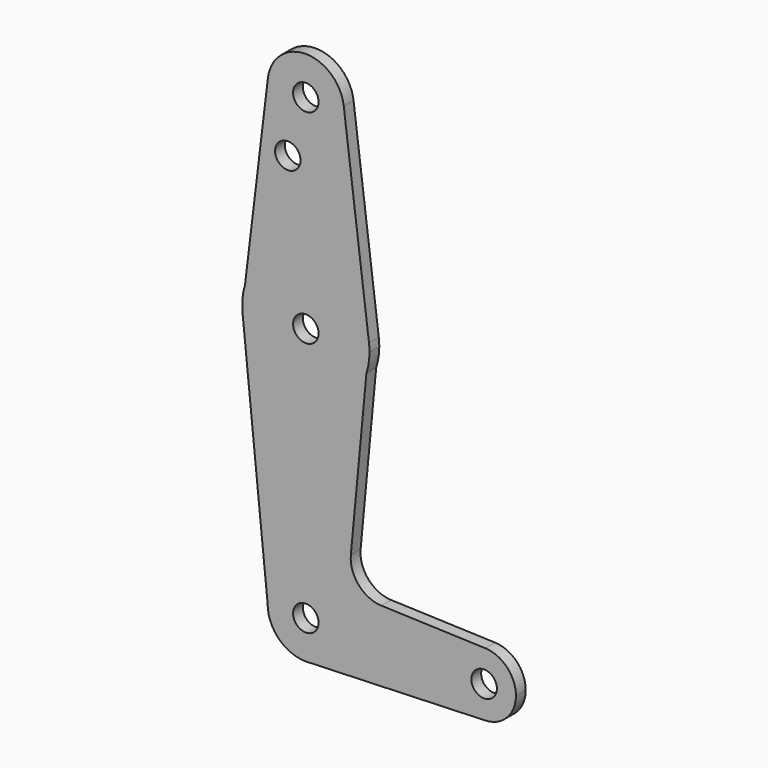
from build123d import *

# Parameters (mm, degrees)
F0_R     = 3.175
F0_R_2   = 3.1788973625
F1_DEPTH = 3.048


with BuildPart() as f1:
    # F0 (on Front) → F1 (new body)
    with BuildSketch(Plane.XZ):
        with BuildLine():
            ThreePointArc((-9.4562854497, 115.442055381), (-0.5720603514, 104.7921941567), (9.525, 114.3))
            ThreePointArc((9.525, 114.3), (9.5063048942, 114.896483242), (9.4502929642, 115.490625))
            ThreePointArc((9.4502929642, 115.490625), (-0.0244689485, 123.8249685706), (-9.4562854497, 115.442055381))
        make_face()
        with Locations((0, 114.3)):
            Circle(F0_R, mode=Mode.SUBTRACT)
        with BuildLine():
            ThreePointArc((9.4502929642, 115.490625), (9.5063048942, 114.896483242), (9.525, 114.3))
            ThreePointArc((9.525, 114.3), (-0.5720603514, 104.7921941567), (-9.4562854497, 115.442055381))
            Line((-9.4562854497, 115.442055381), (-15.160856762, 68.2078707757))
            ThreePointArc((-15.160856762, 68.2078707757), (1.3932959628, 79.3137393225), (15.7504882737, 65.484375))
            Line((15.7504882737, 65.484375), (9.4502929642, 115.490625))
        make_face()
        with Locations((-4.4924989343, 100.0252)):
            Circle(F0_R, mode=Mode.SUBTRACT)
        with BuildLine():
            Line((15.1007031189, 58.6026139305), (15.7504882737, 65.484375))
            ThreePointArc((15.7504882737, 65.484375), (1.3932959628, 79.3137393225), (-15.160856762, 68.2078707757))
            Line((-15.160856762, 68.2078707757), (-15.8457562666, 62.5368627611))
            Line((-15.8457562666, 62.5368627611), (-15.7180053509, 61.2729093441))
            ThreePointArc((-15.7180053509, 61.2729093441), (-1.3703594092, 47.6842565749), (15.1007031189, 58.6026139305))
        make_face()
        with Locations((0, 63.5)):
            Circle(F0_R, mode=Mode.SUBTRACT)
        with BuildLine():
            ThreePointArc((15.875, 63.5), (15.8438414904, 64.4941387366), (15.7504882737, 65.484375))
            Line((15.7504882737, 65.484375), (15.1007031189, 58.6026139305))
            ThreePointArc((15.1007031189, 58.6026139305), (15.6802309775, 61.020890988), (15.875, 63.5))
        make_face()
        with BuildLine():
            Line((-15.8457562666, 62.5368627611), (-15.160856762, 68.2078707757))
            ThreePointArc((-15.160856762, 68.2078707757), (-15.7604757495, 65.4034256351), (-15.8457562666, 62.5368627611))
        make_face()
        with BuildLine():
            Line((11.2241018594, 17.546207155), (15.1007031189, 58.6026139305))
            ThreePointArc((15.1007031189, 58.6026139305), (-1.3703594092, 47.6842565749), (-15.7180053509, 61.2729093441))
            Line((-15.7180053509, 61.2729093441), (-9.525, 0))
            ThreePointArc((-9.525, 0), (0, 9.525), (9.525, 0))
            ThreePointArc((9.525, 0), (6.9705567315, -6.4912990883), (0.6773435479, -9.500885786))
            Line((0.6773435479, -9.500885786), (44.7324052746, -7.9324746146))
            ThreePointArc((44.7324052746, -7.9324746146), (36.5125, 0), (44.7324052746, 7.9324746146))
            Line((44.7324052746, 7.9324746146), (18.8562403874, 8.8536960246))
            ThreePointArc((18.8562403874, 8.8536960246), (13.1648917084, 11.5534317224), (11.2241018594, 17.546207155))
        make_face()
        with BuildLine():
            Line((-15.7180053509, 61.2729093441), (-15.8457562666, 62.5368627611))
            ThreePointArc((-15.8457562666, 62.5368627611), (-15.7945293194, 61.9036076361), (-15.7180053509, 61.2729093441))
        make_face()
        with BuildLine():
            ThreePointArc((9.525, 0), (0, 9.525), (-9.525, 0))
            ThreePointArc((-9.525, 0), (-6.7351920908, -6.7351920908), (0, -9.525))
            Line((0, -9.525), (0.6773435479, -9.500885786))
            ThreePointArc((0.6773435479, -9.500885786), (6.9705567315, -6.4912990883), (9.525, 0))
        make_face()
        Circle(F0_R, mode=Mode.SUBTRACT)
        with BuildLine():
            Line((0.6773435479, -9.500885786), (0, -9.525))
            ThreePointArc((0, -9.525), (0.3388863295, -9.5189695375), (0.6773435479, -9.500885786))
        make_face()
        with BuildLine():
            ThreePointArc((52.3875, 0), (50.1616327839, 5.5119104847), (44.7324052746, 7.9324746146))
            ThreePointArc((44.7324052746, 7.9324746146), (36.5125, 0), (44.7324052746, -7.9324746146))
            ThreePointArc((44.7324052746, -7.9324746146), (50.1616327839, -5.5119104847), (52.3875, 0))
        make_face()
        with Locations((44.45, 0)):
            Circle(F0_R_2, mode=Mode.SUBTRACT)
    extrude(amount=F1_DEPTH)


solid = f1.part
